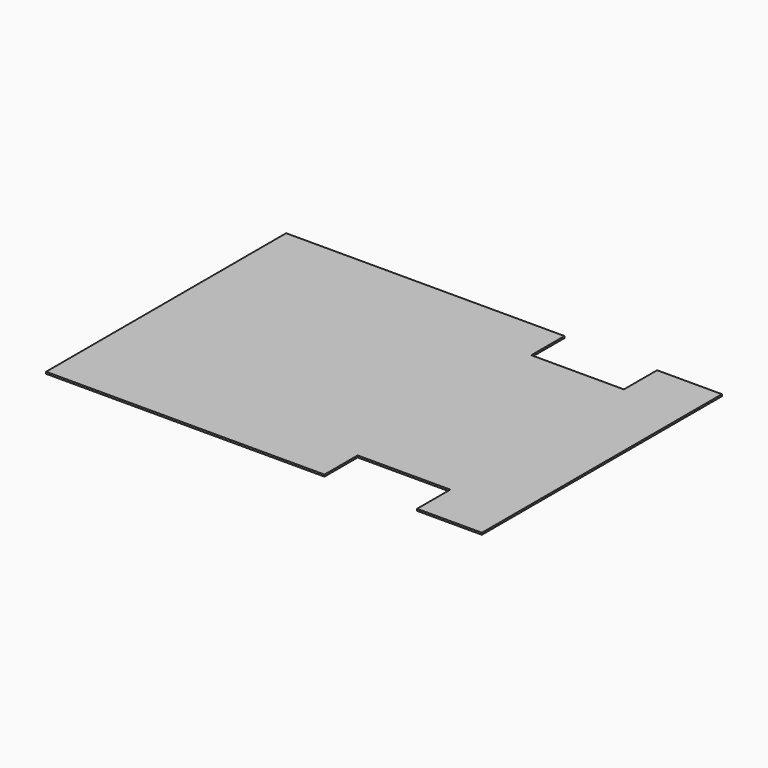
from build123d import *

# Parameters (mm, degrees)
F2_DEPTH = 10


with BuildPart() as f2:
    # F1 (on face) → F2 (new body)
    with BuildSketch(Plane.XY):
        Polygon((-850, 1620), (-2353, 1620), (-2353, 0), (-850, 0), (-850, 224), (-350, 224), (-350, 0), (0, 0), (0, 1620), (-350, 1620), (-350, 1396), (-850, 1396), align=None)
    extrude(amount=-F2_DEPTH)


solid = f2.part
